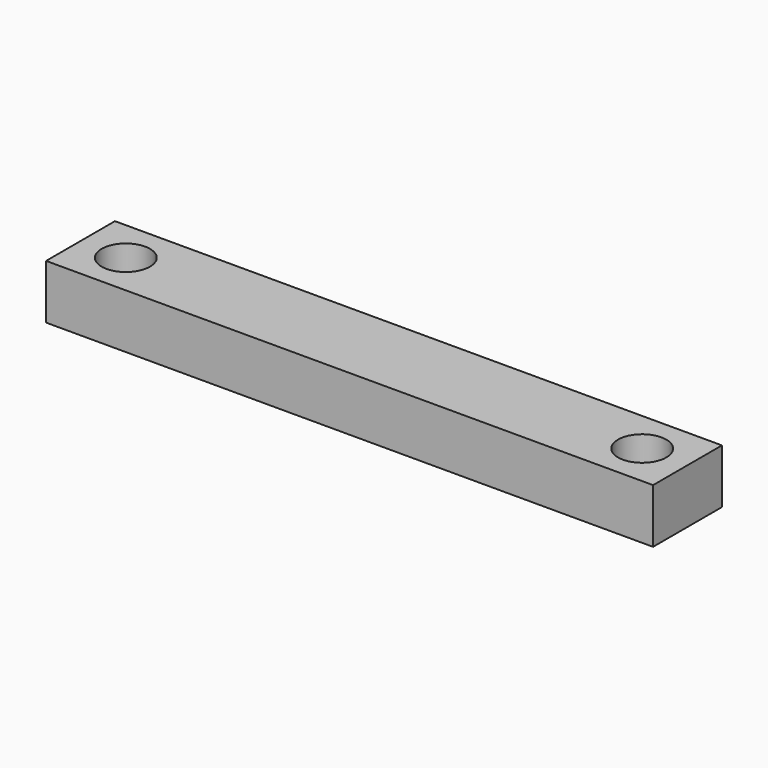
from build123d import *

# Parameters (mm, degrees)
F0_W     = 212.725
F0_H     = 19.05
F1_DEPTH = 30.1625
F2_R     = 8.4709
F3_DEPTH = 25.4


with BuildPart() as f1:
    # F0 (on Front) → F1 (new body)
    with BuildSketch(Plane.XZ):
        with Locations((86.084842, 1.936927)):
            Rectangle(F0_W, F0_H)
    extrude(amount=F1_DEPTH)

    # F2 (on face) → F3 (cut)
    with BuildSketch(Plane.XY.offset(11.461927)):
        with Locations((-4.402658, -15.08125)):
            Circle(F2_R)
        with Locations((176.572342, -15.08125)):
            Circle(F2_R)
    extrude(amount=-F3_DEPTH, mode=Mode.SUBTRACT)


solid = f1.part
